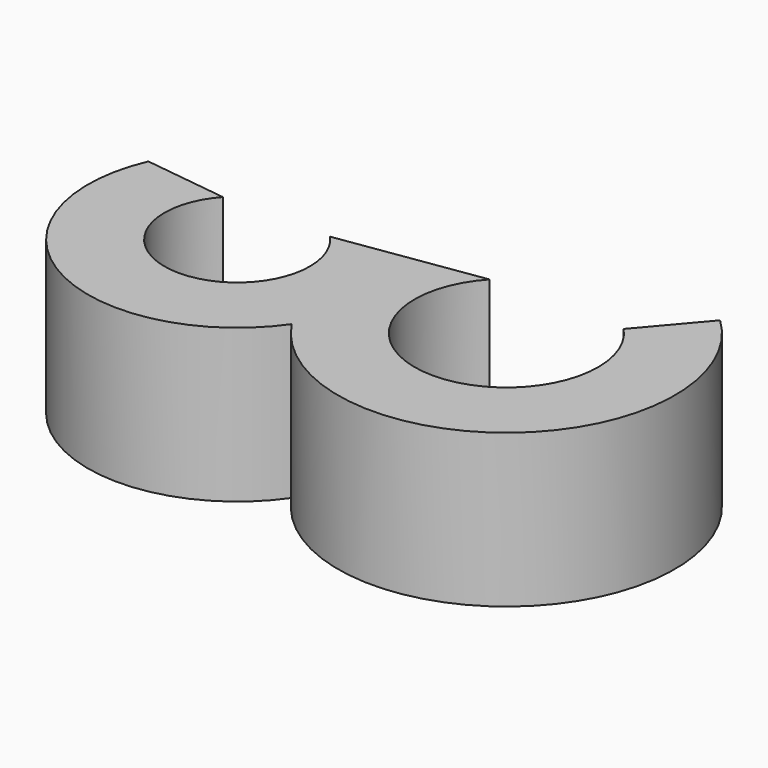
from build123d import *

# Parameters (mm, degrees)
PAD_DEPTH = 4


with BuildPart() as part:
    # Sketch → Pad (new body)
    with BuildSketch(Plane.XY):
        with BuildLine():
            ThreePointArc((-1.4, 2.284523), (0, -0.9), (1.4, 2.284523))
            Line((1.4, 2.284523), (5.126697, 2.842407))
            ThreePointArc((5.126697, 2.842407), (6.876697, -1.2), (8.626697, 2.842407))
            Line((8.626697, 2.842407), (9.926509, 4.371537))
            ThreePointArc((3.204177, -1.223343), (9.691411, -2.181921), (9.926509, 4.371537))
            ThreePointArc((-3.572196, 2.565062), (-1.903119, -2.404136), (3.204177, -1.223343))
            Line((-3.572196, 2.565062), (-1.4, 2.284523))
        make_face()
    extrude(amount=PAD_DEPTH)


solid = part.part
